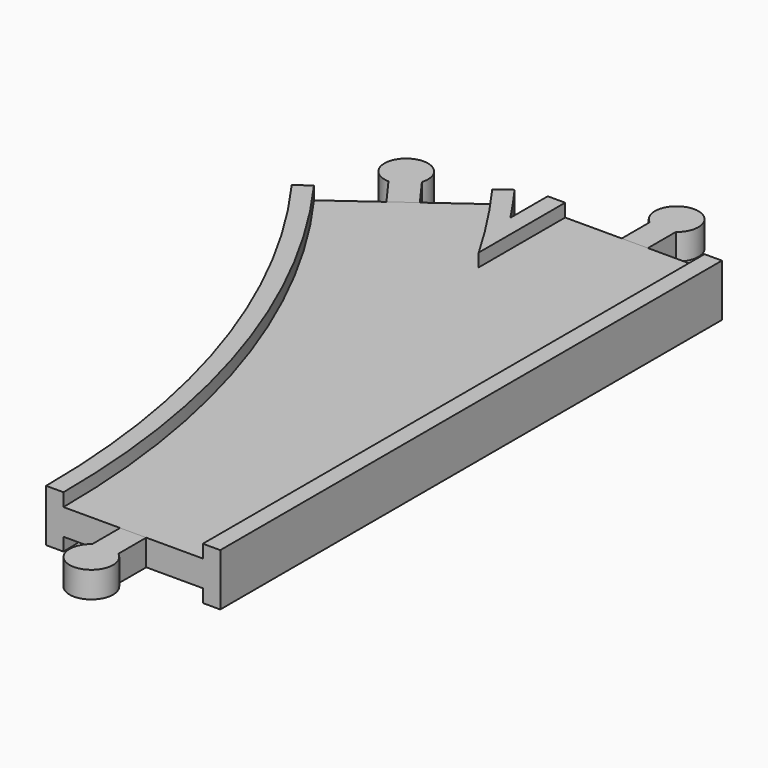
from build123d import *

# Parameters (mm, degrees)
SKETCH013_W  = 32
SKETCH013_H  = 3
PAD_DEPTH    = 3
PAD001_DEPTH = 3
PAD002_DEPTH = 3


with BuildPart() as body:
    # AdditivePipe: sweep along a path in Sketch002
    with BuildLine(Plane.XY) as additivepipe_path:
        ThreePointArc((0, 0), (-10.865453, 68.601773), (-42.398227, 130.488326))
    # Sketch → AdditivePipe (sweep)
    with BuildSketch(Plane.XZ):
        Polygon((-20, 6), (-20, -6), (-16, -6), (-16, -3), (-9, -3), (9, -3), (16, -3), (16, -6), (20, -6), (20, 6), (16, 6), (16, 3), (9, 3), (-9, 3), (-16, 3), (-16, 6), align=None)
    sweep(path=additivepipe_path.line)

    # AdditivePipe001: sweep along a path in Sketch001
    with BuildLine(Plane.XY) as additivepipe001_path:
        Line((0, 0), (0, 144))
    # Sketch → AdditivePipe001 (sweep)
    with BuildSketch(Plane.XZ):
        Polygon((-20, 6), (-20, -6), (-16, -6), (-16, -3), (-9, -3), (9, -3), (16, -3), (16, -6), (20, -6), (20, 6), (16, 6), (16, 3), (9, 3), (-9, 3), (-16, 3), (-16, 6), align=None)
    sweep(path=additivepipe001_path.line)

    # SubtractivePipe: sweep along a path in Sketch002
    with BuildLine(Plane.XY) as subtractivepipe_path:
        ThreePointArc((0, 0), (-10.865453, 68.601773), (-42.398227, 130.488326))
    # Sketch013 (on Face1 of AdditivePipe001) → SubtractivePipe (sweep, cut)
    with BuildSketch(Plane.XZ):
        with Locations((0, 4.5)):
            Rectangle(SKETCH013_W, SKETCH013_H)
    subtractivepipe = sweep(path=subtractivepipe_path.line, mode=Mode.SUBTRACT)

    # SubtractivePipe001: sweep along a path in Sketch001
    with BuildLine(Plane.XY) as subtractivepipe001_path:
        Line((0, 0), (0, 144))
    # Sketch013 (on Face1 of AdditivePipe001) → SubtractivePipe001 (sweep, cut)
    with BuildSketch(Plane.XZ):
        with Locations((0, 4.5)):
            Rectangle(SKETCH013_W, SKETCH013_H)
    subtractivepipe001 = sweep(path=subtractivepipe001_path.line, mode=Mode.SUBTRACT)

    # Mirrored: SubtractivePipe across XY
    add(subtractivepipe.mirror(Plane.XY), mode=Mode.SUBTRACT)

    # Mirrored001: SubtractivePipe001 across XY
    add(subtractivepipe001.mirror(Plane.XY), mode=Mode.SUBTRACT)


with BuildPart() as body001:
    # Sketch008 → Pad (new body, symmetric)
    with BuildSketch(Plane.XY):
        with BuildLine():
            Line((-3, 0), (3, 0))
            Line((3, 0), (3, -8))
            ThreePointArc((-3, -8), (0, -17), (3, -8))
            Line((-3, 0), (-3, -8))
        make_face()
    extrude(amount=PAD_DEPTH, both=True)


with BuildPart() as body002:
    # Sketch011 → Pad001 (new body, symmetric)
    with BuildSketch(Plane.XY):
        with BuildLine():
            Line((-3, 144), (3, 144))
            Line((3, 144), (3, 152))
            ThreePointArc((3, 152), (0, 161), (-3, 152))
            Line((-3, 144), (-3, 152))
        make_face()
    extrude(amount=PAD001_DEPTH, both=True)


with BuildPart() as body003:
    # Sketch012 → Pad002 (new body, symmetric)
    with BuildSketch(Plane.XY):
        with BuildLine():
            Line((-44.825278, 128.72497), (-39.971176, 132.251682))
            Line((-39.971176, 132.251682), (-44.673458, 138.723818))
            ThreePointArc((-44.673458, 138.723818), (-52.390577, 144.241615), (-49.52756, 135.197106))
            Line((-44.825278, 128.72497), (-49.52756, 135.197106))
        make_face()
    extrude(amount=PAD002_DEPTH, both=True)


solid = Compound([body.part, body001.part, body002.part, body003.part])
